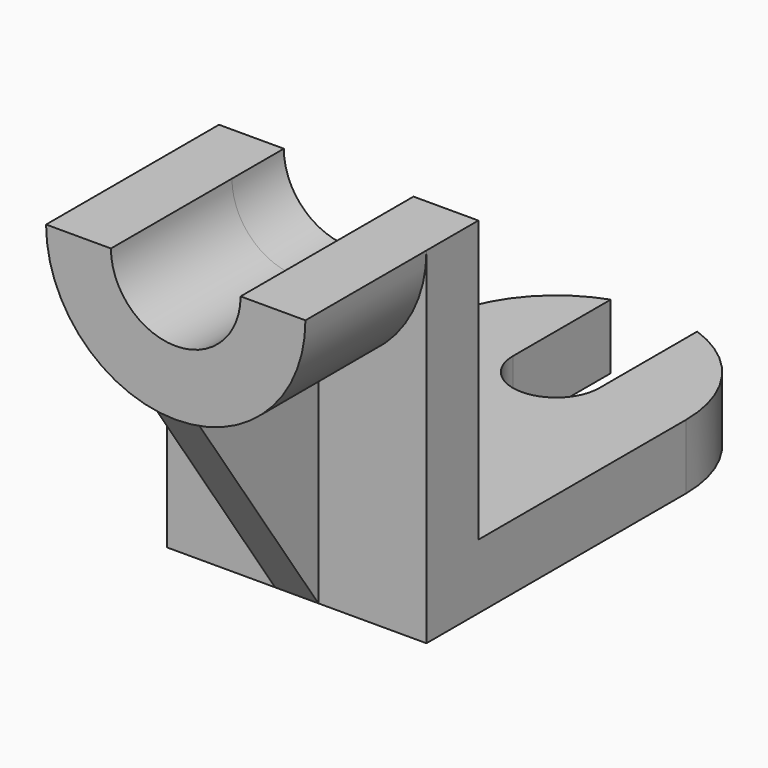
from build123d import *

# Parameters (mm, degrees)
PAD003_DEPTH    = 5
PAD_DEPTH       = 15
SKETCH001_W     = 60
SKETCH001_H     = 15
PAD001_DEPTH    = 65
POCKET_DEPTH    = 15.001
PAD002_DEPTH    = 35
SKETCH004_R     = 15
POCKET001_DEPTH = 103.285271


with BuildPart() as pad003:
    # Sketch005 → Pad003 (new body, symmetric)
    with BuildSketch(Plane.YZ):
        Polygon((0, 0), (-35, 51), (0, 51), align=None)
    extrude(amount=PAD003_DEPTH, both=True)


with BuildPart() as fusion:
    # Sketch → Pad (new body)
    with BuildSketch(Plane.XY):
        with BuildLine():
            ThreePointArc((30, 75), (0, 105), (-30, 75))
            Line((-30, 0), (-30, 75))
            Line((-30, 0), (30, 0))
            Line((30, 0), (30, 75))
        make_face()
    extrude(amount=PAD_DEPTH)

    # Sketch001 → Pad001 (new body)
    with BuildSketch(Plane.XY.offset(15)):
        with Locations((0, 7.5)):
            Rectangle(SKETCH001_W, SKETCH001_H)
    extrude(amount=PAD001_DEPTH)

    # Sketch002 → Pocket (cut, through all)
    with BuildSketch(Plane.XY.offset(15)):
        with BuildLine():
            ThreePointArc((-10, 75.000024), (0, 65), (10, 75.000024))
            Line((10, 109.698372), (10, 75.000024))
            Line((-10, 109.698372), (10, 109.698372))
            Line((-10, 75.000024), (-10, 109.698372))
        make_face()
    extrude(amount=-POCKET_DEPTH, mode=Mode.SUBTRACT)

    # Sketch003 → Pad002 (new body)
    with BuildSketch(Plane.XZ):
        with BuildLine():
            ThreePointArc((-30, 80), (0, 49.999953), (30, 80))
            Line((15, 80), (30, 80))
            ThreePointArc((-15, 80), (0, 64.999953), (15, 80))
            Line((-15, 80), (-30, 80))
        make_face()
    extrude(amount=PAD002_DEPTH)

    # Sketch004 → Pocket001 (cut, through all)
    with BuildSketch(Plane.XZ):
        with Locations((0, 79.999953)):
            Circle(SKETCH004_R)
    extrude(amount=-POCKET001_DEPTH, mode=Mode.SUBTRACT)

    # Fusion: union Pad003
    add(pad003.part)


solid = fusion.part
